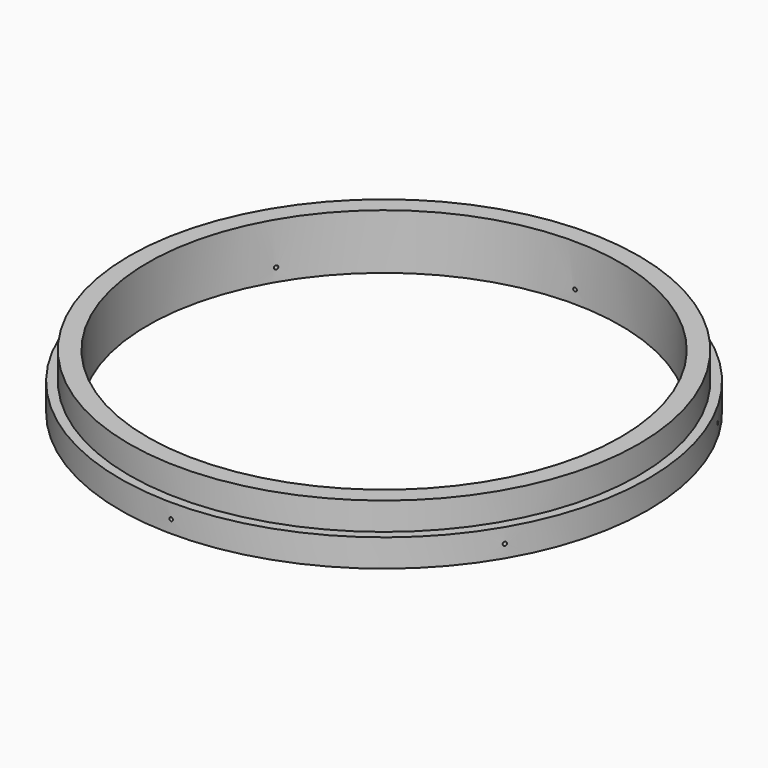
from build123d import *

# Parameters (mm, degrees)
SKETCH_R              = 138.5
SKETCH_R_2            = 128.5
PAD_DEPTH             = 30
SKETCH002_R           = 1
POCKET001_DEPTH       = 28
SKETCH003_R           = 143.5
SKETCH003_R_2         = 136.5
PAD001_DEPTH          = 15
POCKET002_DEPTH       = 30
POLARPATTERN002_COUNT = 6


with BuildPart() as part:
    # Sketch → Pad (new body)
    with BuildSketch(Plane.XY):
        Circle(SKETCH_R)
        Circle(SKETCH_R_2, mode=Mode.SUBTRACT)
    extrude(amount=PAD_DEPTH)

    # Sketch002 (on DatumPlane) → Pocket001 (cut)
    with BuildSketch(Plane(origin=(-1, -155, 0), x_dir=(1, 0, 0), z_dir=(0, -1, 0))):
        with Locations((0, 7)):
            Circle(SKETCH002_R)
    extrude(amount=-POCKET001_DEPTH, mode=Mode.SUBTRACT)

    # Sketch003 → Pad001 (join)
    with BuildSketch(Plane.XY):
        with Locations((-0.00298, -0.000479)):
            Circle(SKETCH003_R)
        with Locations((-0.006501, 0.000101)):
            Circle(SKETCH003_R_2, mode=Mode.SUBTRACT)
    extrude(amount=PAD001_DEPTH)

    # Sketch002 (on DatumPlane) → Pocket002 (cut)
    with BuildSketch(Plane(origin=(-1, -155, 0), x_dir=(1, 0, 0), z_dir=(0, -1, 0))):
        with Locations((0, 7)):
            Circle(SKETCH002_R)
    pocket002 = extrude(amount=-POCKET002_DEPTH, mode=Mode.SUBTRACT)

    # PolarPattern002: Pocket002 ×6 about axis
    polarpattern002_axis = Axis((0, 0, 0), (0, 0, 1))
    for i in range(1, POLARPATTERN002_COUNT):
        add(pocket002.rotate(polarpattern002_axis, i * 360 / POLARPATTERN002_COUNT), mode=Mode.SUBTRACT)


solid = part.part
